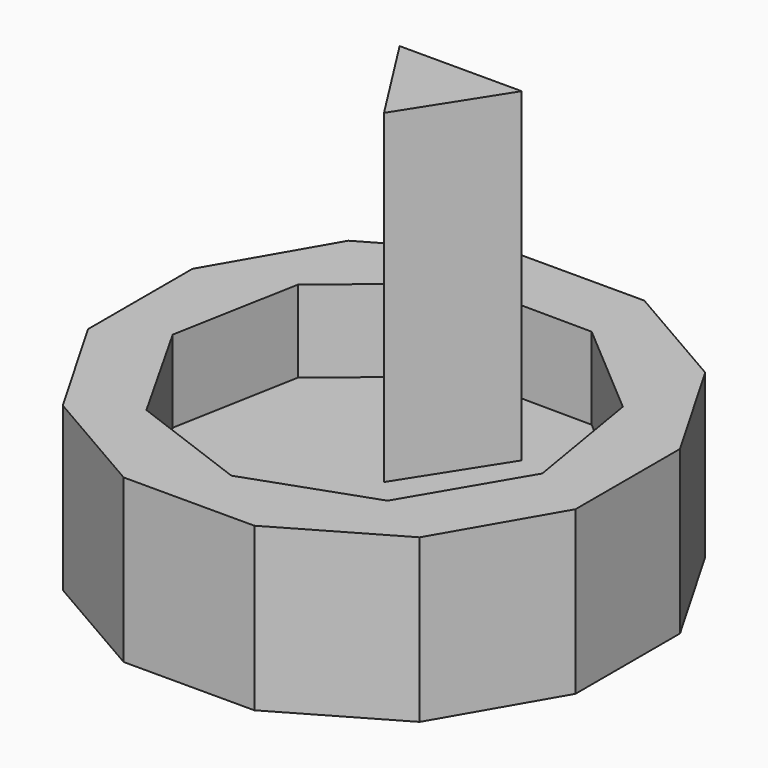
from build123d import *

# Parameters (mm, degrees)
F1_DEPTH = 25.4
F3_DEPTH = 12.80478
F5_DEPTH = 50.8


with BuildPart() as f1:
    # F0 (on Top) → F1 (new body)
    with BuildSketch(Plane.XY):
        Polygon((38.1, -10.208864), (38.1, 10.208864), (27.891136, 27.891136), (10.208864, 38.1), (-10.208864, 38.1), (-27.891136, 27.891136), (-38.1, 10.208864), (-38.1, -10.208864), (-27.891136, -27.891136), (-10.208864, -38.1), (10.208864, -38.1), (27.891136, -27.891136), align=None)
    extrude(amount=F1_DEPTH)

    # F2 (on face) → F3 (cut)
    with BuildSketch(Plane.XY.offset(25.4)):
        Polygon((18.787623, -22.776135), (29.032371, -5.37108), (25.692551, 14.547162), (10.3309, 27.658626), (-9.864694, 27.828311), (-25.444488, 14.97682), (-29.118523, -4.882491), (-19.167678, -22.457231), (-0.248063, -29.523983), align=None)
    extrude(amount=-F3_DEPTH, mode=Mode.SUBTRACT)

    # F4 (on face) → F5 (join)
    with BuildSketch(Plane.XY.offset(12.59522)):
        Polygon((-9.541287, 14.97682), (0, 0), (9.541287, 14.97682), align=None)
    extrude(amount=F5_DEPTH)


solid = f1.part
